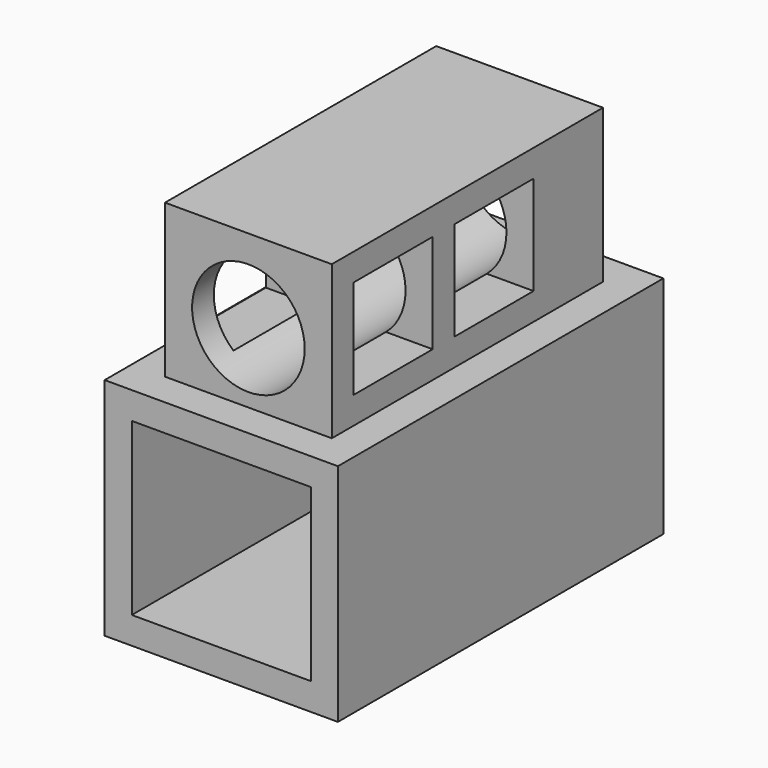
from build123d import *

# Parameters (mm, degrees)
F0_W     = 13.2
F0_H     = 12.6
F1_DEPTH = 15
F0_W_2   = 12.3
F0_H_2   = 11.3
F0_R     = 4.15
F2_DEPTH = 12.5
F3_W     = 7.3
F3_H     = 7.3
F3_W_2   = 7.299999
F4_DEPTH = 25


with BuildPart() as f1:
    # F0 (on Front) → F1 (new body, symmetric)
    with BuildSketch(Plane.XZ):
        Polygon((8.6, -8.3), (8.6, 8.3), (6.15, 8.3), (-6.15, 8.3), (-8.6, 8.3), (-8.6, -8.3), align=None)
        Rectangle(F0_W, F0_H, mode=Mode.SUBTRACT)
    extrude(amount=F1_DEPTH, both=True)

    # F0 (on Front) → F2 (join, symmetric)
    with BuildSketch(Plane.XZ):
        with Locations((0, 13.95)):
            Rectangle(F0_W_2, F0_H_2)
        with Locations((0, 13.45)):
            Circle(F0_R, mode=Mode.SUBTRACT)
    extrude(amount=F2_DEPTH, both=True)

    # F3 (on face) → F4 (cut)
    with BuildSketch(Plane.YZ.offset(6.15)):
        with Locations((-6.85, 13.95)):
            Rectangle(F3_W, F3_H)
        with Locations((2.449999, 13.95)):
            Rectangle(F3_W_2, F3_H)
    extrude(amount=-F4_DEPTH, mode=Mode.SUBTRACT)


solid = f1.part
